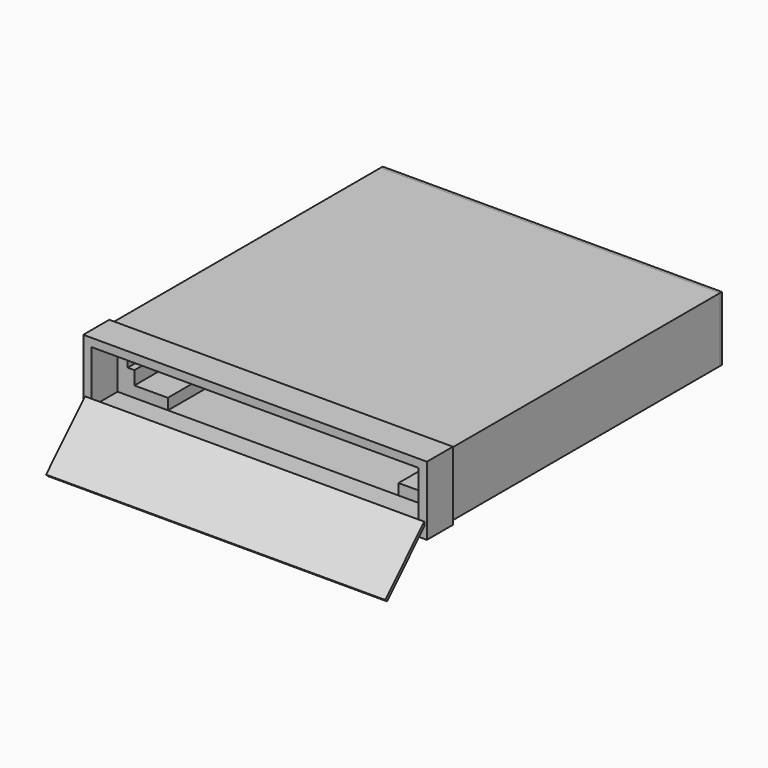
from build123d import *

# Parameters (mm, degrees)
F0_W      = 152.4018198252
F0_H      = 28.8946051151
F0_W_2    = 149.0018218756
F0_H_2    = 25.4946071655
F1_DEPTH  = 160
F3_START  = -10
F3_DEPTH  = 150
F5_START  = -10
F5_DEPTH  = 150
F6_W      = 1.2055812009
F6_H      = 28.8845263422
F7_DEPTH  = 76.2
F9_DEPTH  = 76.2
F10_W     = 10
F10_H     = 30.9223439544
F11_DEPTH = 77.2
F12_W     = 146.8962877989
F12_H     = 23.5759057105
F13_DEPTH = 112.4
F14_W     = 152.6277539183
F14_H     = 29.0700802796
F14_W_2   = 148.8256156445
F14_H_2   = 25.3299812903
F15_DEPTH = 9.2
F16_DEPTH = 4.6


with BuildPart() as f1:
    # F0 (on Front) → F1 (new body)
    with BuildSketch(Plane.XZ):
        Rectangle(F0_W, F0_H)
        Rectangle(F0_W_2, F0_H_2, mode=Mode.SUBTRACT)
    extrude(amount=-F1_DEPTH)


with BuildPart() as f3:
    # F2 (on Front) → F3 (new body)
    with BuildSketch(Plane.XZ.offset(F3_START)):
        Polygon((-51.7913967393, 12.5920321899), (-74.2913967393, 12.5920321899), (-74.2913967393, -12.6069678101), (-51.7913967393, -12.6069678101), (-51.7913967393, -7.6069678101), (-66.7913967393, -7.6069678101), (-66.7913967393, -1.5549678101), (-69.7913967393, -1.5549678101), (-69.7913967393, 1.5400321899), (-66.7913967393, 1.5400321899), (-66.7913967393, 7.5920321899), (-51.7913967393, 7.5920321899), align=None)
    extrude(amount=-F3_DEPTH)


with BuildPart() as f5:
    # F4 (on Front) → F5 (new body)
    with BuildSketch(Plane.XZ.offset(F5_START)):
        Polygon((74.3810287863, 12.6020161743), (51.8810287863, 12.6020161743), (51.8810287863, 7.6020161743), (66.8810287863, 7.6020161743), (66.8810287863, 1.5500161743), (69.8810287863, 1.5500161743), (69.8810287863, -1.5458079478), (66.8810287863, -1.5458079478), (66.8810287863, -7.5974407703), (51.8810287863, -7.5974407703), (51.8810287863, -12.5974407703), (74.3810287863, -12.5974407703), align=None)
    extrude(amount=-F5_DEPTH)


with BuildPart() as f7:
    # F6 (on Right) → F7 (new body, symmetric)
    with BuildSketch(Plane.YZ):
        with Locations((160.6003283326, 0)):
            Rectangle(F6_W, F6_H)
    extrude(amount=F7_DEPTH, both=True)


with BuildPart() as f9:
    # F8 (on Right) → F9 (new body, symmetric)
    with BuildSketch(Plane.YZ):
        Polygon((-26.8510025357, -31.5395196355), (-5.0067298549, -9.4426561112), (-6.0056681545, -8.4551367475), (-27.8499408353, -30.5520002717), align=None)
    extrude(amount=F9_DEPTH, both=True)


with BuildPart() as f11:
    # F10 (on Right) → F11 (new body, symmetric)
    with BuildSketch(Plane.YZ):
        with Locations((3.8782835472, 0)):
            Rectangle(F10_W, F10_H)
    extrude(amount=F11_DEPTH, both=True)

    # F12 (on face) → F13 (cut, symmetric)
    with BuildSketch(Plane.XZ.offset(1.1217164528)):
        Rectangle(F12_W, F12_H)
    extrude(amount=F13_DEPTH, both=True, mode=Mode.SUBTRACT)

    # F14 (on face) → F15 (cut)
    with BuildSketch(Plane(origin=(0, 8.8782835472, 0), x_dir=(-1, 0, 0), z_dir=(0, 1, 0))):
        Rectangle(F14_W, F14_H)
        Rectangle(F14_W_2, F14_H_2, mode=Mode.SUBTRACT)
    extrude(amount=-F15_DEPTH, mode=Mode.SUBTRACT)

    # F16 (add): a face of the model
    f16_faces = [f11.faces().sort_by_distance(p)[0] for p in [
        (0, -1.1217164528, 13.8865116534),
    ]]
    extrude(f16_faces, amount=F16_DEPTH)


solid = Compound([f1.part, f3.part, f5.part, f7.part, f9.part, f11.part])
